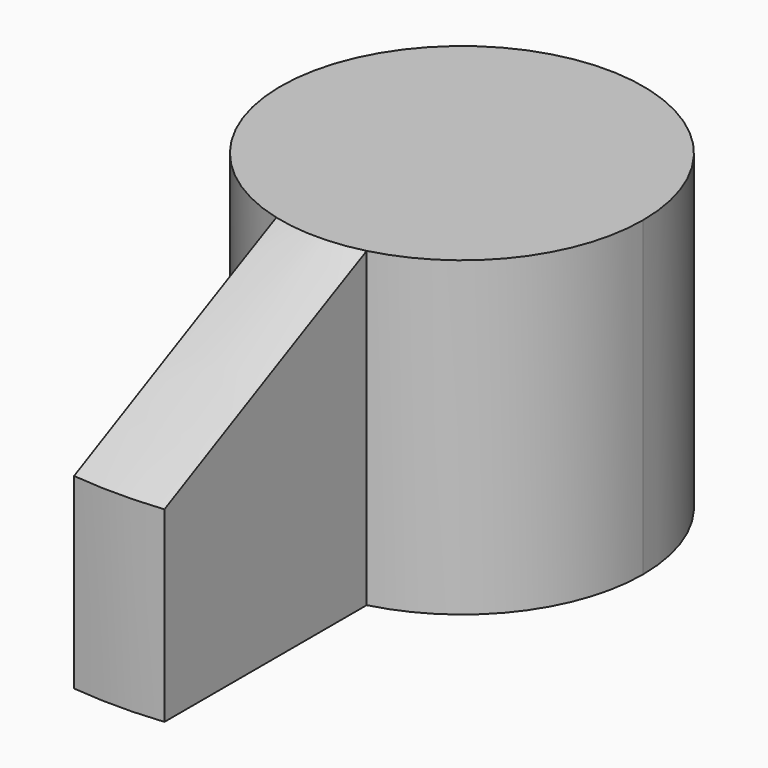
from build123d import *

# Parameters (mm, degrees)
F0_R     = 34.5257671678
F1_DEPTH = 25
F2_SIZE2 = 10
F2_SIZE  = 20
F4_DEPTH = 25


with BuildPart() as f1:
    # F0 (on Top) → F1 (new body)
    with BuildSketch(Plane.XY):
        Circle(F0_R)
    extrude(amount=F1_DEPTH)

    # F2
    f2_edges = [f1.edges().sort_by_distance(p)[0] for p in [
        (-34.525767, 0, 25),
    ]]
    f2_side = f1.faces().sort_by_distance((0, 0, 25))[0]
    chamfer(f2_edges, length=F2_SIZE, length2=F2_SIZE2, reference=f2_side)

    # F3 (on face) → F4 (cut)
    with BuildSketch(Plane.XY.offset(25)):
        with BuildLine():
            Line((-3.6215493205, -34.3353022273), (-3.6215493205, -14.0670640978))
            ThreePointArc((-3.6215493205, -14.0670640978), (-8.899217089, 11.4804985525), (14.5257671678, 0))
            ThreePointArc((14.5257671678, 0), (11.4804985525, -8.899217089), (3.6215493205, -14.0670640978))
            Line((3.6215493205, -14.0670640978), (3.6215493205, -34.3353022273))
            ThreePointArc((3.6215493205, -34.3353022273), (25.6618916601, -23.0975304946), (34.5257671678, 0))
            ThreePointArc((34.5257671678, 0), (-23.0975304946, 25.6618916601), (-3.6215493205, -34.3353022273))
        make_face()
    extrude(amount=-F4_DEPTH, mode=Mode.SUBTRACT)


solid = f1.part
